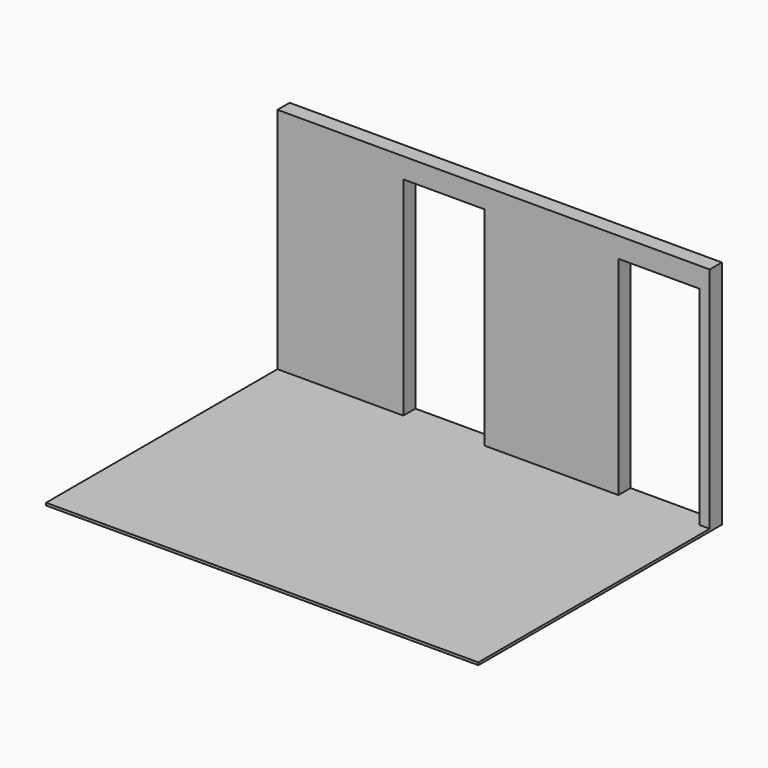
from build123d import *

# Parameters (mm, degrees)
F1_DEPTH = 150
F2_W     = 4260
F2_H     = 3000
F3_DEPTH = 25


with BuildPart() as f1:
    # F0 (on Front) → F1 (new body)
    with BuildSketch(Plane.XZ):
        Polygon((1708.14704, 1244.919891), (-2551.85296, 1244.919891), (-2551.85296, -1005.080109), (-1311.85296, -1005.080109), (-1311.85296, 1044.919891), (-511.85296, 1044.919891), (-511.85296, -1005.080109), (808.14704, -1005.080109), (808.14704, 1044.919891), (1608.14704, 1044.919891), (1608.14704, -1005.080109), (1708.14704, -1005.080109), align=None)
    extrude(amount=F1_DEPTH)

    # F2 (on face) → F3 (join)
    with BuildSketch(Plane(origin=(0, 0, -1005.080109), x_dir=(1, 0, 0), z_dir=(0, 0, -1))):
        with Locations((-421.85296, 1500)):
            Rectangle(F2_W, F2_H)
    extrude(amount=F3_DEPTH)


solid = f1.part
